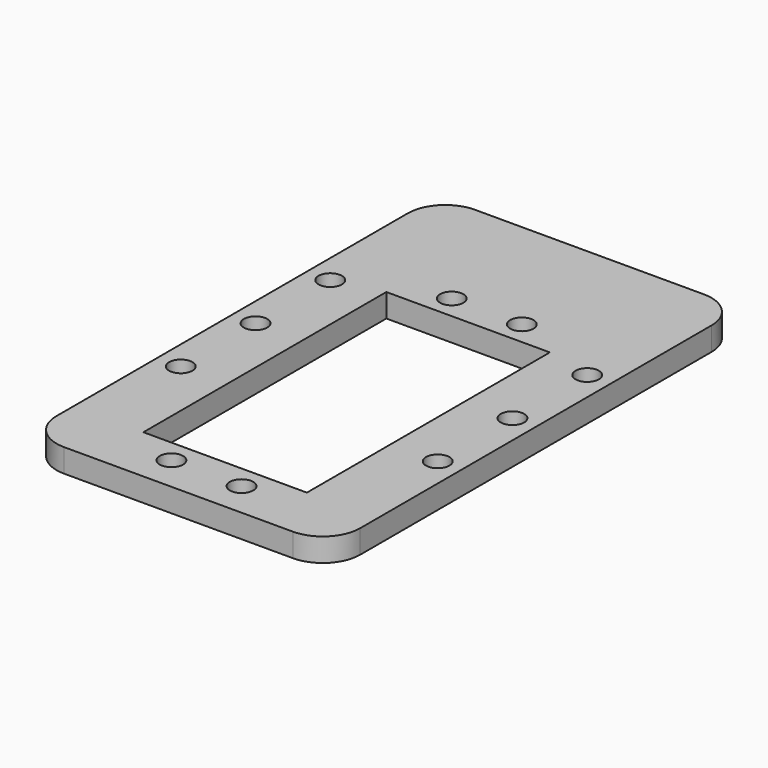
from build123d import *

# Parameters (mm, degrees)
F0_W     = 41.275
F0_H     = 69.85
F0_R     = 1.5875
F0_W_2   = 22.225
F0_H_2   = 41.275
F1_DEPTH = 3.175
F2_R     = 5.08


with BuildPart() as f1:
    # F0 (on Top) → F1 (new body)
    with BuildSketch(Plane.XY):
        with Locations((-42.702931, 43.010428)):
            Rectangle(F0_W, F0_H)
        with Locations((-47.465431, 12.847928)):
            Circle(F0_R, mode=Mode.SUBTRACT)
        with Locations((-60.165431, 30.310428)):
            Circle(F0_R, mode=Mode.SUBTRACT)
        with Locations((-37.940431, 12.847928)):
            Circle(F0_R, mode=Mode.SUBTRACT)
        with Locations((-42.702931, 36.660428)):
            Rectangle(F0_W_2, F0_H_2, mode=Mode.SUBTRACT)
        with Locations((-25.240431, 30.310428)):
            Circle(F0_R, mode=Mode.SUBTRACT)
        with Locations((-25.240431, 43.010428)):
            Circle(F0_R, mode=Mode.SUBTRACT)
        with Locations((-60.165431, 43.010428)):
            Circle(F0_R, mode=Mode.SUBTRACT)
        with Locations((-60.165431, 55.710428)):
            Circle(F0_R, mode=Mode.SUBTRACT)
        with Locations((-47.465431, 60.472928)):
            Circle(F0_R, mode=Mode.SUBTRACT)
        with Locations((-37.940431, 60.472928)):
            Circle(F0_R, mode=Mode.SUBTRACT)
        with Locations((-25.240431, 55.710428)):
            Circle(F0_R, mode=Mode.SUBTRACT)
    extrude(amount=F1_DEPTH)

    # F2
    f2_edges = [f1.edges().sort_by_distance(p)[0] for p in [
        (-22.065431, 77.935428, 1.5875),
        (-63.340431, 77.935428, 1.5875),
        (-63.340431, 8.085428, 1.5875),
        (-22.065431, 8.085428, 1.5875),
    ]]
    fillet(f2_edges, radius=F2_R)


solid = f1.part
